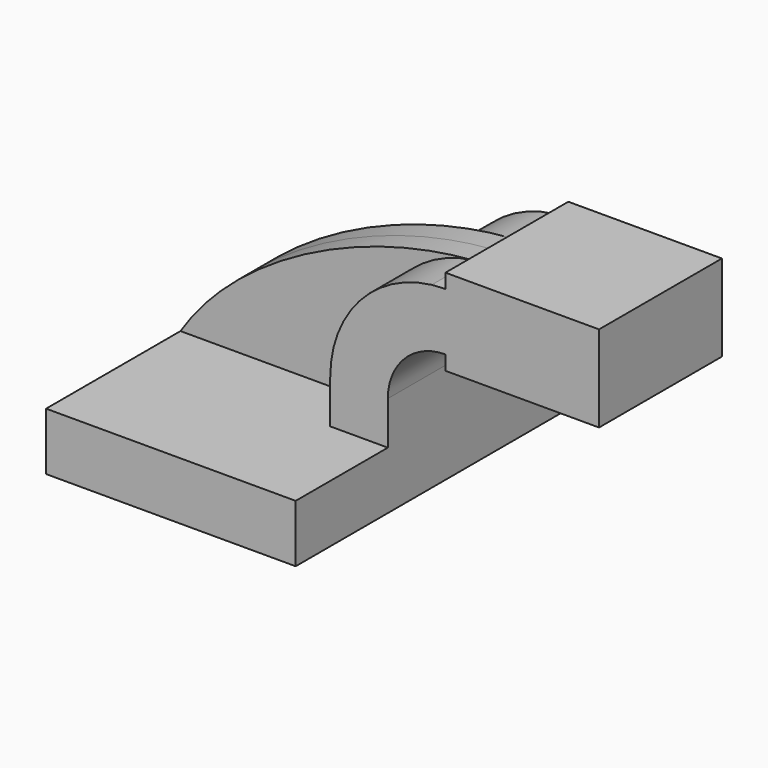
from build123d import *

# Parameters (mm, degrees)
F1_DEPTH = 25
F0_W     = 10
F0_H     = 7.5
F0_H_2   = 1.88
F0_H_3   = 1.87
F2_DEPTH = 10
F3_DEPTH = 3.125


with BuildPart() as f1:
    # F0 (on Front) → F1 (new body, symmetric)
    with BuildSketch(Plane.XZ):
        Polygon((16.25, -3.75), (16.25, 3.75), (8.75, 3.75), (-16.25, 3.75), (-16.25, -3.75), align=None)
    extrude(amount=F1_DEPTH, both=True)

    # F0 (on Front) → F2 (join, symmetric)
    with BuildSketch(Plane.XZ):
        with BuildLine():
            Line((8.75, 3.75), (16.25, 3.75))
            Line((16.25, 3.75), (16.25, 9.38))
            ThreePointArc((16.25, 9.38), (18.4466991411, 14.6833008589), (23.75, 16.88))
            Line((23.75, 16.88), (23.75, 24.38))
            add(Edge.make_bspline(
                [(21.9670846153, 24.2736635094), (22.5617558007, 24.3196900172), (23.156226413, 24.3552224615), (23.75, 24.38)],
                knots=[43.3513201218, 43.3513201218, 43.3513201218, 43.3513201218, 45.0066317336, 45.0066317336, 45.0066317336, 45.0066317336], degree=3))
            ThreePointArc((21.9670846153, 24.2736635094), (12.5307368609, 19.3363112956), (8.75, 9.38))
            Line((8.75, 9.38), (8.75, 3.75))
        make_face()
        with Locations((28.75, 20.63)):
            Rectangle(F0_W, F0_H)
        with Locations((28.75, 15.94)):
            Rectangle(F0_W, F0_H_2)
        with Locations((28.75, 25.315)):
            Rectangle(F0_W, F0_H_3)
        Polygon((33.75, 24.38), (33.75, 16.88), (33.75, 15), (43.75, 15), (43.75, 26.25), (33.75, 26.25), align=None)
    extrude(amount=F2_DEPTH, both=True)

    # F0 (on Front) → F3 (join, symmetric)
    with BuildSketch(Plane.XZ):
        with BuildLine():
            Line((-16.25, 3.75), (8.75, 3.75))
            Line((8.75, 3.75), (8.75, 9.38))
            ThreePointArc((8.75, 9.38), (12.5307368609, 19.3363112956), (21.9670846153, 24.2736635094))
            add(Edge.make_bspline(
                [(-16.25, 3.75), (-9.3184325712, 14.665248361), (6.3931100598, 23.0682651661), (21.9670846153, 24.2736635094)],
                knots=[0, 0, 0, 0, 43.3513201218, 43.3513201218, 43.3513201218, 43.3513201218], degree=3))
        make_face()
    extrude(amount=F3_DEPTH, both=True)


solid = f1.part
